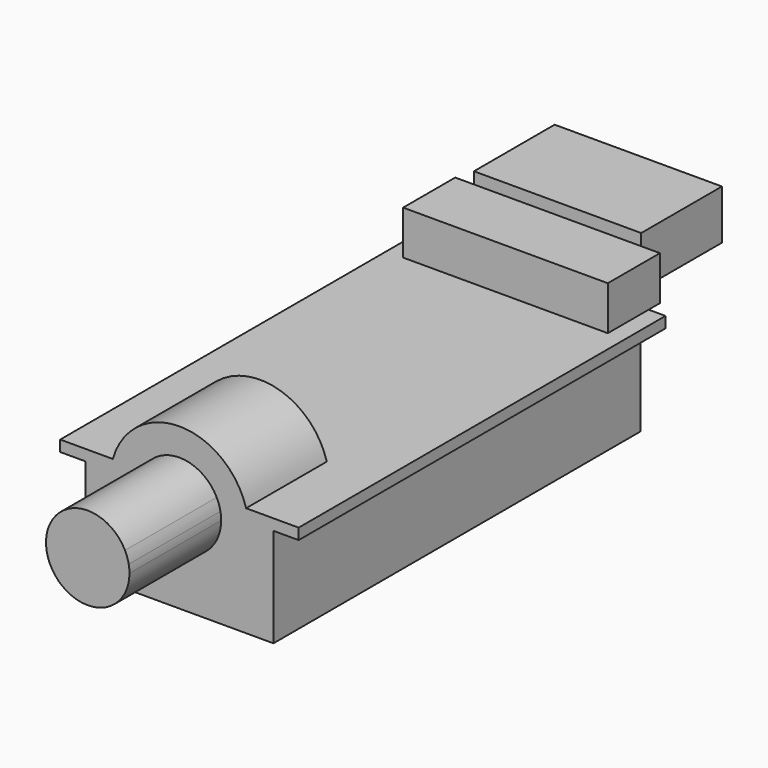
from build123d import *

# Parameters (mm, degrees)
F2_DEPTH = 12.5
F3_DEPTH = 50
F4_DEPTH = 11
F6_DEPTH = 9.12
F7_DEPTH = 11.16


with BuildPart() as f2:
    # F1 (on Front) → F2 (new body)
    with BuildSketch(Plane.XZ):
        with BuildLine():
            ThreePointArc((4.55, 9.35), (4.5299305702, 9.7768829224), (4.4698993277, 10.2))
            Line((4.4698993277, 10.2), (-4.4698993277, 10.2))
            ThreePointArc((-4.4698993277, 10.2), (-0.4268829224, 4.8200694298), (4.55, 9.35))
        make_face()
        with BuildLine():
            Line((-4.4698993277, 10.2), (4.4698993277, 10.2))
            ThreePointArc((4.4698993277, 10.2), (4.3079471272, 10.8142716787), (4.0620192023, 11.4))
            Line((4.0620192023, 11.4), (-4.0620192023, 11.4))
            ThreePointArc((-4.0620192023, 11.4), (-4.3079471272, 10.8142716787), (-4.4698993277, 10.2))
        make_face()
        with BuildLine():
            Line((-4.0620192023, 11.4), (4.0620192023, 11.4))
            ThreePointArc((4.0620192023, 11.4), (0, 13.9), (-4.0620192023, 11.4))
        make_face()
    extrude(amount=F2_DEPTH)

    # F1 (on Front) → F3 (join)
    with BuildSketch(Plane.XZ):
        with BuildLine():
            Line((7.5019997334, 10.2), (10.25, 10.2))
            Line((10.25, 10.2), (13, 10.2))
            Line((13, 10.2), (13, 11.4))
            Line((13, 11.4), (7.2663608498, 11.4))
            ThreePointArc((7.2663608498, 11.4), (7.4085166247, 10.804778822), (7.5019997334, 10.2))
        make_face()
        with BuildLine():
            Line((4.4698993277, 10.2), (7.5019997334, 10.2))
            ThreePointArc((7.5019997334, 10.2), (7.4085166247, 10.804778822), (7.2663608498, 11.4))
            Line((7.2663608498, 11.4), (4.0620192023, 11.4))
            ThreePointArc((4.0620192023, 11.4), (4.3079471272, 10.8142716787), (4.4698993277, 10.2))
        make_face()
        with BuildLine():
            Line((-4.4698993277, 10.2), (4.4698993277, 10.2))
            ThreePointArc((4.4698993277, 10.2), (4.3079471272, 10.8142716787), (4.0620192023, 11.4))
            Line((4.0620192023, 11.4), (-4.0620192023, 11.4))
            ThreePointArc((-4.0620192023, 11.4), (-4.3079471272, 10.8142716787), (-4.4698993277, 10.2))
        make_face()
        with BuildLine():
            ThreePointArc((-7.2663608498, 11.4), (-7.4085166247, 10.804778822), (-7.5019997334, 10.2))
            Line((-7.5019997334, 10.2), (-4.4698993277, 10.2))
            ThreePointArc((-4.4698993277, 10.2), (-4.3079471272, 10.8142716787), (-4.0620192023, 11.4))
            Line((-4.0620192023, 11.4), (-7.2663608498, 11.4))
        make_face()
        with BuildLine():
            Line((-13, 10.2), (-10.25, 10.2))
            Line((-10.25, 10.2), (-7.5019997334, 10.2))
            ThreePointArc((-7.5019997334, 10.2), (-7.4085166247, 10.804778822), (-7.2663608498, 11.4))
            Line((-7.2663608498, 11.4), (-13, 11.4))
            Line((-13, 11.4), (-13, 10.2))
        make_face()
        with BuildLine():
            Line((-10.25, -0.6), (10.25, -0.6))
            Line((10.25, -0.6), (10.25, 10.2))
            Line((10.25, 10.2), (7.5019997334, 10.2))
            ThreePointArc((7.5019997334, 10.2), (7.5379903816, 9.7756771152), (7.55, 9.35))
            ThreePointArc((7.55, 9.35), (-0.4256771152, 1.8120096184), (-7.5019997334, 10.2))
            Line((-7.5019997334, 10.2), (-10.25, 10.2))
            Line((-10.25, 10.2), (-10.25, -0.6))
        make_face()
        with BuildLine():
            ThreePointArc((7.55, 9.35), (7.5379903816, 9.7756771152), (7.5019997334, 10.2))
            Line((7.5019997334, 10.2), (4.4698993277, 10.2))
            ThreePointArc((4.4698993277, 10.2), (4.5299305702, 9.7768829224), (4.55, 9.35))
            ThreePointArc((4.55, 9.35), (-0.4268829224, 4.8200694298), (-4.4698993277, 10.2))
            Line((-4.4698993277, 10.2), (-7.5019997334, 10.2))
            ThreePointArc((-7.5019997334, 10.2), (-0.4256771152, 1.8120096184), (7.55, 9.35))
        make_face()
        with BuildLine():
            ThreePointArc((4.55, 9.35), (4.5299305702, 9.7768829224), (4.4698993277, 10.2))
            Line((4.4698993277, 10.2), (-4.4698993277, 10.2))
            ThreePointArc((-4.4698993277, 10.2), (-0.4268829224, 4.8200694298), (4.55, 9.35))
        make_face()
    extrude(amount=-F3_DEPTH)

    # F1 (on Front) → F4 (join)
    with BuildSketch(Plane.XZ):
        with BuildLine():
            Line((4.0620192023, 11.4), (7.2663608498, 11.4))
            ThreePointArc((7.2663608498, 11.4), (0, 16.9), (-7.2663608498, 11.4))
            Line((-7.2663608498, 11.4), (-4.0620192023, 11.4))
            ThreePointArc((-4.0620192023, 11.4), (0, 13.9), (4.0620192023, 11.4))
        make_face()
        with BuildLine():
            Line((-4.0620192023, 11.4), (4.0620192023, 11.4))
            ThreePointArc((4.0620192023, 11.4), (0, 13.9), (-4.0620192023, 11.4))
        make_face()
    extrude(amount=-F4_DEPTH)


with BuildPart() as f6:
    # F5 (on Right) → F6 (new body, symmetric)
    with BuildSketch(Plane.YZ):
        Polygon((62.5386638701, 17.4665924624), (51.5386638701, 17.4665924624), (51.5386638701, 16.2), (51.5386638701, 12.0665924624), (62.5386638701, 12.0665924624), align=None)
    extrude(amount=F6_DEPTH, both=True)


with BuildPart() as f7:
    # F5 (on Right) → F7 (new body, symmetric)
    with BuildSketch(Plane.YZ):
        Polygon((51.5386638701, 12.0665924624), (51.5386638701, 16.2), (44.4386638701, 16.2), (44.4386638701, 11.4), (50, 11.4), (51.5386638701, 11.4), align=None)
    extrude(amount=F7_DEPTH, both=True)


solid = Compound([f2.part, f6.part, f7.part])
